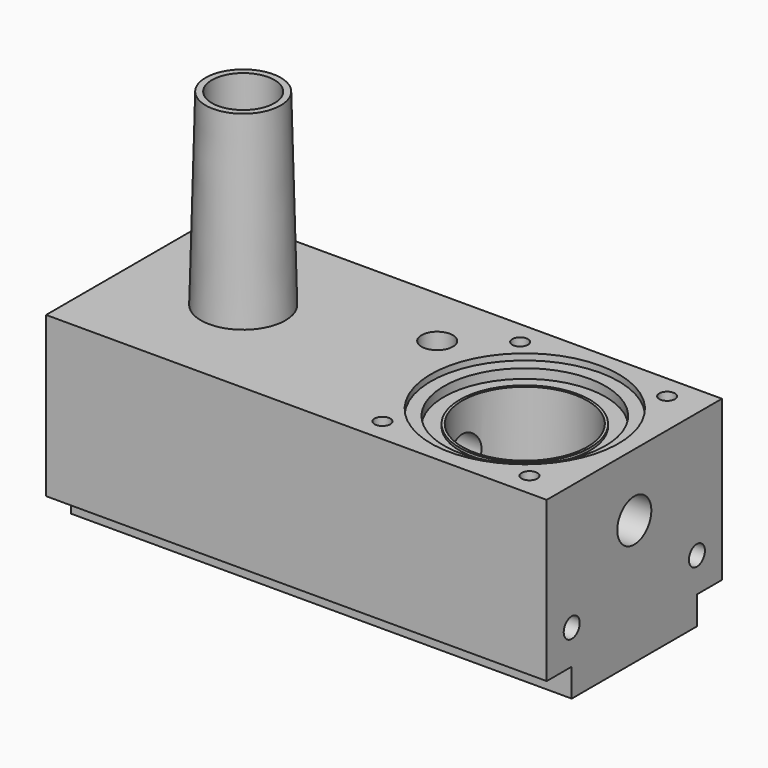
from build123d import *

# Parameters (mm, degrees)
PAD_DEPTH       = 30
SKETCH003_R     = 5
HOLE_DEPTH      = 44
HOLE_TIPS_R     = 5
SKETCH005_R     = 2.5
HOLE001_DEPTH   = 60.001
SKETCH011_R     = 3.2
HOLE002_DEPTH   = 60
HOLE002_TIPS_R  = 3.2
SKETCH013_R     = 1.25
HOLE003_DEPTH   = 10
HOLE003_TIPS_R  = 1.25
SKETCH014_R     = 3.4
HOLE004_DEPTH   = 20
HOLE004_TIPS_R  = 3.4
SKETCH015_R     = 10
SKETCH015_R_2   = 3.5
SKETCH015_W     = 112.5
SKETCH015_H     = 5
POCKET001_DEPTH = 5
SKETCH016_R     = 1.6
HOLE005_DEPTH   = 20
HOLE005_TIPS_R  = 1.6
SKETCH029_R     = 2.5
POCKET007_DEPTH = 60.001


with BuildPart() as part:
    # Sketch → Revolution (revolve)
    with BuildSketch(Plane.XZ):
        Polygon((6, 60), (6.75, 30), (0, 30), (0, 60), align=None)
    revolve(axis=Axis((0, 0, 0), (0, 0, 1)))

    # Sketch006 → Pad (new body)
    with BuildSketch(Plane.XY):
        Polygon((0, 17.5), (62.5, 17.5), (62.5, -17.5), (0, -17.5), (-17.5, -17.5), (-17.5, 17.5), align=None)
    extrude(amount=PAD_DEPTH)

    # Sketch003 → Hole (cut)
    with BuildSketch(Plane.XY.offset(60)):
        Circle(SKETCH003_R)
    extrude(amount=-HOLE_DEPTH, mode=Mode.SUBTRACT)

    # Hole tips → Hole tip 1 section 0
    with BuildSketch(Plane.XY.offset(16), mode=Mode.PRIVATE) as hole_tip_1_s0:
        Circle(HOLE_TIPS_R)
    loft([hole_tip_1_s0.sketch, Vertex(0, 0, 12.995697)], mode=Mode.SUBTRACT)

    # Sketch005 → Hole001 (cut, through all)
    with BuildSketch(Plane.XY):
        with Locations((-2.5, 0)):
            Circle(SKETCH005_R)
    extrude(amount=HOLE001_DEPTH, mode=Mode.SUBTRACT)

    # Sketch011 → Hole002 (cut)
    with BuildSketch(Plane.YZ.offset(62.5)):
        with Locations((0, 20)):
            Circle(SKETCH011_R)
    extrude(amount=-HOLE002_DEPTH, mode=Mode.SUBTRACT)

    # Hole002 tips → Hole002 tip 1 section 0
    with BuildSketch(Plane.YZ.offset(2.5), mode=Mode.PRIVATE) as hole002_tip_1_s0:
        with Locations((0, 20)):
            Circle(HOLE002_TIPS_R)
    loft([hole002_tip_1_s0.sketch, Vertex(0.577246, 0, 20)], mode=Mode.SUBTRACT)

    # Sketch012 → Groove (revolve, cut)
    with BuildSketch(Plane.YZ.offset(45)):
        Polygon((15, 30), (15, 29), (12.9, 29), (12.9, 27.5), (10.4, 27.5), (10.4, 27.9), (10, 27.9), (10, 11.5), (5.4, 11.5), (4.788889, 6.5), (2.5, 6.5), (2.5, 0), (0, 0), (0, 30), align=None)
    revolve(axis=Axis((45, 0, 0), (0, 0, 1)), mode=Mode.SUBTRACT)

    # Sketch013 → Hole003 (cut)
    with BuildSketch(Plane.XY.offset(30)):
        with Locations((33.25, 13.75)):
            Circle(SKETCH013_R)
        with Locations((56.75, 13.75)):
            Circle(SKETCH013_R)
        with Locations((33.25, -13.75)):
            Circle(SKETCH013_R)
        with Locations((56.75, -13.75)):
            Circle(SKETCH013_R)
    extrude(amount=-HOLE003_DEPTH, mode=Mode.SUBTRACT)

    # Hole003 tips → Hole003 tip 1 section 0
    with BuildSketch(Plane.XY.offset(20), mode=Mode.PRIVATE) as hole003_tip_1_s0:
        with Locations((33.25, 13.75)):
            Circle(HOLE003_TIPS_R)
    loft([hole003_tip_1_s0.sketch, Vertex(33.25, 13.75, 19.248924)], mode=Mode.SUBTRACT)

    # Hole003 tips → Hole003 tip 2 section 0
    with BuildSketch(Plane.XY.offset(20), mode=Mode.PRIVATE) as hole003_tip_2_s0:
        with Locations((56.75, 13.75)):
            Circle(HOLE003_TIPS_R)
    loft([hole003_tip_2_s0.sketch, Vertex(56.75, 13.75, 19.248924)], mode=Mode.SUBTRACT)

    # Hole003 tips → Hole003 tip 3 section 0
    with BuildSketch(Plane.XY.offset(20), mode=Mode.PRIVATE) as hole003_tip_3_s0:
        with Locations((33.25, -13.75)):
            Circle(HOLE003_TIPS_R)
    loft([hole003_tip_3_s0.sketch, Vertex(33.25, -13.75, 19.248924)], mode=Mode.SUBTRACT)

    # Hole003 tips → Hole003 tip 4 section 0
    with BuildSketch(Plane.XY.offset(20), mode=Mode.PRIVATE) as hole003_tip_4_s0:
        with Locations((56.75, -13.75)):
            Circle(HOLE003_TIPS_R)
    loft([hole003_tip_4_s0.sketch, Vertex(56.75, -13.75, 19.248924)], mode=Mode.SUBTRACT)

    # Sketch014 → Hole004 (cut)
    with BuildSketch(Plane.YZ.offset(62.5)):
        with Locations((0, 20)):
            Circle(SKETCH014_R)
    extrude(amount=-HOLE004_DEPTH, mode=Mode.SUBTRACT)

    # Hole004 tips → Hole004 tip 1 section 0
    with BuildSketch(Plane.YZ.offset(42.5), mode=Mode.PRIVATE) as hole004_tip_1_s0:
        with Locations((0, 20)):
            Circle(HOLE004_TIPS_R)
    loft([hole004_tip_1_s0.sketch, Vertex(40.457074, 0, 20)], mode=Mode.SUBTRACT)

    # Sketch015 → Pocket001 (cut)
    with BuildSketch(Plane.XY.offset(4.5)):
        with Locations((45, 0)):
            Circle(SKETCH015_R)
        with Locations((45, 0)):
            Circle(SKETCH015_R_2, mode=Mode.SUBTRACT)
        with Locations((6.25, 15)):
            Rectangle(SKETCH015_W, SKETCH015_H)
        with Locations((6.25, -15)):
            Rectangle(SKETCH015_W, SKETCH015_H)
    extrude(amount=-POCKET001_DEPTH, mode=Mode.SUBTRACT)

    # Sketch016 → Hole005 (cut)
    with BuildSketch(Plane.YZ.offset(62.5)):
        with Locations((-12.5, 10)):
            Circle(SKETCH016_R)
        with Locations((12.5, 10)):
            Circle(SKETCH016_R)
    extrude(amount=-HOLE005_DEPTH, mode=Mode.SUBTRACT)

    # Hole005 tips → Hole005 tip 1 section 0
    with BuildSketch(Plane.YZ.offset(42.5), mode=Mode.PRIVATE) as hole005_tip_1_s0:
        with Locations((-12.5, 10)):
            Circle(HOLE005_TIPS_R)
    loft([hole005_tip_1_s0.sketch, Vertex(41.538623, -12.5, 10)], mode=Mode.SUBTRACT)

    # Hole005 tips → Hole005 tip 2 section 0
    with BuildSketch(Plane.YZ.offset(42.5), mode=Mode.PRIVATE) as hole005_tip_2_s0:
        with Locations((12.5, 10)):
            Circle(HOLE005_TIPS_R)
    loft([hole005_tip_2_s0.sketch, Vertex(41.538623, 12.5, 10)], mode=Mode.SUBTRACT)

    # Sketch029 → Pocket007 (cut, through all)
    with BuildSketch(Plane.XY):
        with Locations((25, 7.5)):
            Circle(SKETCH029_R)
    extrude(amount=POCKET007_DEPTH, mode=Mode.SUBTRACT)


solid = part.part
